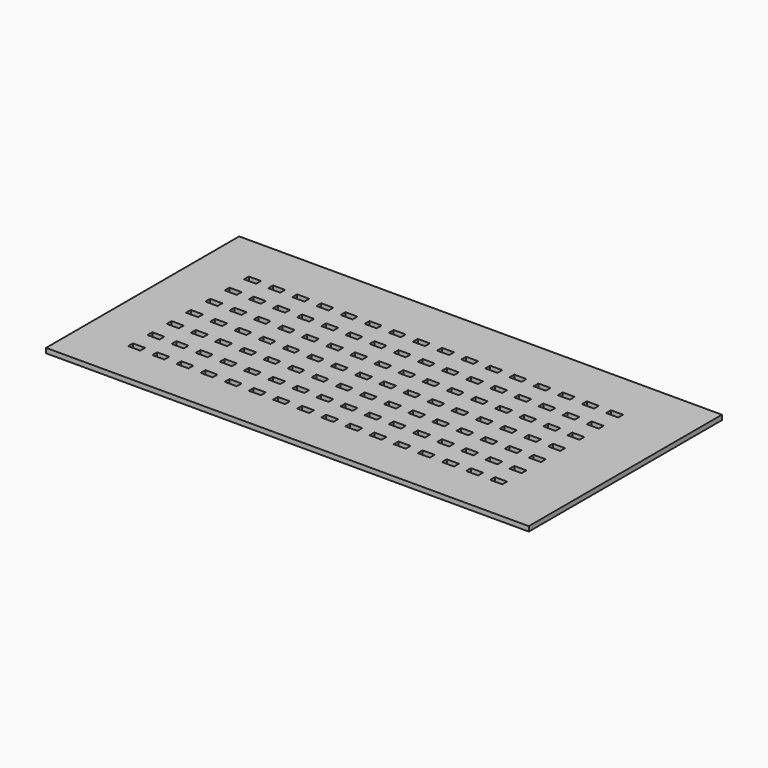
from build123d import *

# Parameters (mm, degrees)
F0_W     = 20
F0_H     = 10
F0_W_2   = 0.5
F0_H_2   = 0.25
F1_DEPTH = 0.2


with BuildPart() as f1:
    # F0 (on Top) → F1 (new body)
    with BuildSketch(Plane.XY):
        with Locations((10, -5)):
            Rectangle(F0_W, F0_H)
        with Locations((2.25, -8.125)):
            Rectangle(F0_W_2, F0_H_2, mode=Mode.SUBTRACT)
        with Locations((3.25, -8.125)):
            Rectangle(F0_W_2, F0_H_2, mode=Mode.SUBTRACT)
        with Locations((4.25, -8.125)):
            Rectangle(F0_W_2, F0_H_2, mode=Mode.SUBTRACT)
        with Locations((5.25, -8.125)):
            Rectangle(F0_W_2, F0_H_2, mode=Mode.SUBTRACT)
        with Locations((6.25, -8.125)):
            Rectangle(F0_W_2, F0_H_2, mode=Mode.SUBTRACT)
        with Locations((7.25, -8.125)):
            Rectangle(F0_W_2, F0_H_2, mode=Mode.SUBTRACT)
        with Locations((8.25, -8.125)):
            Rectangle(F0_W_2, F0_H_2, mode=Mode.SUBTRACT)
        with Locations((9.25, -8.125)):
            Rectangle(F0_W_2, F0_H_2, mode=Mode.SUBTRACT)
        with Locations((2.25, -7.125)):
            Rectangle(F0_W_2, F0_H_2, mode=Mode.SUBTRACT)
        with Locations((3.25, -7.125)):
            Rectangle(F0_W_2, F0_H_2, mode=Mode.SUBTRACT)
        with Locations((4.25, -7.125)):
            Rectangle(F0_W_2, F0_H_2, mode=Mode.SUBTRACT)
        with Locations((2.25, -6.125)):
            Rectangle(F0_W_2, F0_H_2, mode=Mode.SUBTRACT)
        with Locations((2.25, -5.125)):
            Rectangle(F0_W_2, F0_H_2, mode=Mode.SUBTRACT)
        with Locations((3.25, -6.125)):
            Rectangle(F0_W_2, F0_H_2, mode=Mode.SUBTRACT)
        with Locations((4.25, -6.125)):
            Rectangle(F0_W_2, F0_H_2, mode=Mode.SUBTRACT)
        with Locations((3.25, -5.125)):
            Rectangle(F0_W_2, F0_H_2, mode=Mode.SUBTRACT)
        with Locations((4.25, -5.125)):
            Rectangle(F0_W_2, F0_H_2, mode=Mode.SUBTRACT)
        with Locations((5.25, -7.125)):
            Rectangle(F0_W_2, F0_H_2, mode=Mode.SUBTRACT)
        with Locations((6.25, -7.125)):
            Rectangle(F0_W_2, F0_H_2, mode=Mode.SUBTRACT)
        with Locations((7.25, -7.125)):
            Rectangle(F0_W_2, F0_H_2, mode=Mode.SUBTRACT)
        with Locations((8.25, -7.125)):
            Rectangle(F0_W_2, F0_H_2, mode=Mode.SUBTRACT)
        with Locations((9.25, -7.125)):
            Rectangle(F0_W_2, F0_H_2, mode=Mode.SUBTRACT)
        with Locations((5.25, -6.125)):
            Rectangle(F0_W_2, F0_H_2, mode=Mode.SUBTRACT)
        with Locations((6.25, -6.125)):
            Rectangle(F0_W_2, F0_H_2, mode=Mode.SUBTRACT)
        with Locations((7.25, -6.125)):
            Rectangle(F0_W_2, F0_H_2, mode=Mode.SUBTRACT)
        with Locations((5.25, -5.125)):
            Rectangle(F0_W_2, F0_H_2, mode=Mode.SUBTRACT)
        with Locations((6.25, -5.125)):
            Rectangle(F0_W_2, F0_H_2, mode=Mode.SUBTRACT)
        with Locations((7.25, -5.125)):
            Rectangle(F0_W_2, F0_H_2, mode=Mode.SUBTRACT)
        with Locations((8.25, -6.125)):
            Rectangle(F0_W_2, F0_H_2, mode=Mode.SUBTRACT)
        with Locations((9.25, -6.125)):
            Rectangle(F0_W_2, F0_H_2, mode=Mode.SUBTRACT)
        with Locations((8.25, -5.125)):
            Rectangle(F0_W_2, F0_H_2, mode=Mode.SUBTRACT)
        with Locations((9.25, -5.125)):
            Rectangle(F0_W_2, F0_H_2, mode=Mode.SUBTRACT)
        with Locations((10.25, -8.125)):
            Rectangle(F0_W_2, F0_H_2, mode=Mode.SUBTRACT)
        with Locations((11.25, -8.125)):
            Rectangle(F0_W_2, F0_H_2, mode=Mode.SUBTRACT)
        with Locations((12.25, -8.125)):
            Rectangle(F0_W_2, F0_H_2, mode=Mode.SUBTRACT)
        with Locations((13.25, -8.125)):
            Rectangle(F0_W_2, F0_H_2, mode=Mode.SUBTRACT)
        with Locations((14.25, -8.125)):
            Rectangle(F0_W_2, F0_H_2, mode=Mode.SUBTRACT)
        with Locations((15.25, -8.125)):
            Rectangle(F0_W_2, F0_H_2, mode=Mode.SUBTRACT)
        with Locations((16.25, -8.125)):
            Rectangle(F0_W_2, F0_H_2, mode=Mode.SUBTRACT)
        with Locations((17.25, -8.125)):
            Rectangle(F0_W_2, F0_H_2, mode=Mode.SUBTRACT)
        with Locations((10.25, -7.125)):
            Rectangle(F0_W_2, F0_H_2, mode=Mode.SUBTRACT)
        with Locations((11.25, -7.125)):
            Rectangle(F0_W_2, F0_H_2, mode=Mode.SUBTRACT)
        with Locations((12.25, -7.125)):
            Rectangle(F0_W_2, F0_H_2, mode=Mode.SUBTRACT)
        with Locations((13.25, -7.125)):
            Rectangle(F0_W_2, F0_H_2, mode=Mode.SUBTRACT)
        with Locations((14.25, -7.125)):
            Rectangle(F0_W_2, F0_H_2, mode=Mode.SUBTRACT)
        with Locations((10.25, -6.125)):
            Rectangle(F0_W_2, F0_H_2, mode=Mode.SUBTRACT)
        with Locations((11.25, -6.125)):
            Rectangle(F0_W_2, F0_H_2, mode=Mode.SUBTRACT)
        with Locations((12.25, -6.125)):
            Rectangle(F0_W_2, F0_H_2, mode=Mode.SUBTRACT)
        with Locations((10.25, -5.125)):
            Rectangle(F0_W_2, F0_H_2, mode=Mode.SUBTRACT)
        with Locations((11.25, -5.125)):
            Rectangle(F0_W_2, F0_H_2, mode=Mode.SUBTRACT)
        with Locations((12.25, -5.125)):
            Rectangle(F0_W_2, F0_H_2, mode=Mode.SUBTRACT)
        with Locations((13.25, -6.125)):
            Rectangle(F0_W_2, F0_H_2, mode=Mode.SUBTRACT)
        with Locations((14.25, -6.125)):
            Rectangle(F0_W_2, F0_H_2, mode=Mode.SUBTRACT)
        with Locations((13.25, -5.125)):
            Rectangle(F0_W_2, F0_H_2, mode=Mode.SUBTRACT)
        with Locations((14.25, -5.125)):
            Rectangle(F0_W_2, F0_H_2, mode=Mode.SUBTRACT)
        with Locations((15.25, -7.125)):
            Rectangle(F0_W_2, F0_H_2, mode=Mode.SUBTRACT)
        with Locations((16.25, -7.125)):
            Rectangle(F0_W_2, F0_H_2, mode=Mode.SUBTRACT)
        with Locations((17.25, -7.125)):
            Rectangle(F0_W_2, F0_H_2, mode=Mode.SUBTRACT)
        with Locations((15.25, -6.125)):
            Rectangle(F0_W_2, F0_H_2, mode=Mode.SUBTRACT)
        with Locations((16.25, -6.125)):
            Rectangle(F0_W_2, F0_H_2, mode=Mode.SUBTRACT)
        with Locations((17.25, -6.125)):
            Rectangle(F0_W_2, F0_H_2, mode=Mode.SUBTRACT)
        with Locations((15.25, -5.125)):
            Rectangle(F0_W_2, F0_H_2, mode=Mode.SUBTRACT)
        with Locations((16.25, -5.125)):
            Rectangle(F0_W_2, F0_H_2, mode=Mode.SUBTRACT)
        with Locations((17.25, -5.125)):
            Rectangle(F0_W_2, F0_H_2, mode=Mode.SUBTRACT)
        with Locations((2.25, -4.125)):
            Rectangle(F0_W_2, F0_H_2, mode=Mode.SUBTRACT)
        with Locations((3.25, -4.125)):
            Rectangle(F0_W_2, F0_H_2, mode=Mode.SUBTRACT)
        with Locations((4.25, -4.125)):
            Rectangle(F0_W_2, F0_H_2, mode=Mode.SUBTRACT)
        with Locations((2.25, -3.125)):
            Rectangle(F0_W_2, F0_H_2, mode=Mode.SUBTRACT)
        with Locations((3.25, -3.125)):
            Rectangle(F0_W_2, F0_H_2, mode=Mode.SUBTRACT)
        with Locations((4.25, -3.125)):
            Rectangle(F0_W_2, F0_H_2, mode=Mode.SUBTRACT)
        with Locations((5.25, -4.125)):
            Rectangle(F0_W_2, F0_H_2, mode=Mode.SUBTRACT)
        with Locations((6.25, -4.125)):
            Rectangle(F0_W_2, F0_H_2, mode=Mode.SUBTRACT)
        with Locations((7.25, -4.125)):
            Rectangle(F0_W_2, F0_H_2, mode=Mode.SUBTRACT)
        with Locations((8.25, -4.125)):
            Rectangle(F0_W_2, F0_H_2, mode=Mode.SUBTRACT)
        with Locations((9.25, -4.125)):
            Rectangle(F0_W_2, F0_H_2, mode=Mode.SUBTRACT)
        with Locations((5.25, -3.125)):
            Rectangle(F0_W_2, F0_H_2, mode=Mode.SUBTRACT)
        with Locations((6.25, -3.125)):
            Rectangle(F0_W_2, F0_H_2, mode=Mode.SUBTRACT)
        with Locations((7.25, -3.125)):
            Rectangle(F0_W_2, F0_H_2, mode=Mode.SUBTRACT)
        with Locations((8.25, -3.125)):
            Rectangle(F0_W_2, F0_H_2, mode=Mode.SUBTRACT)
        with Locations((9.25, -3.125)):
            Rectangle(F0_W_2, F0_H_2, mode=Mode.SUBTRACT)
        with Locations((2.25, -2.125)):
            Rectangle(F0_W_2, F0_H_2, mode=Mode.SUBTRACT)
        with Locations((3.25, -2.125)):
            Rectangle(F0_W_2, F0_H_2, mode=Mode.SUBTRACT)
        with Locations((4.25, -2.125)):
            Rectangle(F0_W_2, F0_H_2, mode=Mode.SUBTRACT)
        with Locations((5.25, -2.125)):
            Rectangle(F0_W_2, F0_H_2, mode=Mode.SUBTRACT)
        with Locations((6.25, -2.125)):
            Rectangle(F0_W_2, F0_H_2, mode=Mode.SUBTRACT)
        with Locations((7.25, -2.125)):
            Rectangle(F0_W_2, F0_H_2, mode=Mode.SUBTRACT)
        with Locations((8.25, -2.125)):
            Rectangle(F0_W_2, F0_H_2, mode=Mode.SUBTRACT)
        with Locations((9.25, -2.125)):
            Rectangle(F0_W_2, F0_H_2, mode=Mode.SUBTRACT)
        with Locations((10.25, -4.125)):
            Rectangle(F0_W_2, F0_H_2, mode=Mode.SUBTRACT)
        with Locations((11.25, -4.125)):
            Rectangle(F0_W_2, F0_H_2, mode=Mode.SUBTRACT)
        with Locations((12.25, -4.125)):
            Rectangle(F0_W_2, F0_H_2, mode=Mode.SUBTRACT)
        with Locations((13.25, -4.125)):
            Rectangle(F0_W_2, F0_H_2, mode=Mode.SUBTRACT)
        with Locations((14.25, -4.125)):
            Rectangle(F0_W_2, F0_H_2, mode=Mode.SUBTRACT)
        with Locations((10.25, -3.125)):
            Rectangle(F0_W_2, F0_H_2, mode=Mode.SUBTRACT)
        with Locations((11.25, -3.125)):
            Rectangle(F0_W_2, F0_H_2, mode=Mode.SUBTRACT)
        with Locations((12.25, -3.125)):
            Rectangle(F0_W_2, F0_H_2, mode=Mode.SUBTRACT)
        with Locations((13.25, -3.125)):
            Rectangle(F0_W_2, F0_H_2, mode=Mode.SUBTRACT)
        with Locations((14.25, -3.125)):
            Rectangle(F0_W_2, F0_H_2, mode=Mode.SUBTRACT)
        with Locations((15.25, -4.125)):
            Rectangle(F0_W_2, F0_H_2, mode=Mode.SUBTRACT)
        with Locations((16.25, -4.125)):
            Rectangle(F0_W_2, F0_H_2, mode=Mode.SUBTRACT)
        with Locations((17.25, -4.125)):
            Rectangle(F0_W_2, F0_H_2, mode=Mode.SUBTRACT)
        with Locations((15.25, -3.125)):
            Rectangle(F0_W_2, F0_H_2, mode=Mode.SUBTRACT)
        with Locations((16.25, -3.125)):
            Rectangle(F0_W_2, F0_H_2, mode=Mode.SUBTRACT)
        with Locations((17.25, -3.125)):
            Rectangle(F0_W_2, F0_H_2, mode=Mode.SUBTRACT)
        with Locations((10.25, -2.125)):
            Rectangle(F0_W_2, F0_H_2, mode=Mode.SUBTRACT)
        with Locations((11.25, -2.125)):
            Rectangle(F0_W_2, F0_H_2, mode=Mode.SUBTRACT)
        with Locations((12.25, -2.125)):
            Rectangle(F0_W_2, F0_H_2, mode=Mode.SUBTRACT)
        with Locations((13.25, -2.125)):
            Rectangle(F0_W_2, F0_H_2, mode=Mode.SUBTRACT)
        with Locations((14.25, -2.125)):
            Rectangle(F0_W_2, F0_H_2, mode=Mode.SUBTRACT)
        with Locations((15.25, -2.125)):
            Rectangle(F0_W_2, F0_H_2, mode=Mode.SUBTRACT)
        with Locations((16.25, -2.125)):
            Rectangle(F0_W_2, F0_H_2, mode=Mode.SUBTRACT)
        with Locations((17.25, -2.125)):
            Rectangle(F0_W_2, F0_H_2, mode=Mode.SUBTRACT)
    extrude(amount=F1_DEPTH)


solid = f1.part
